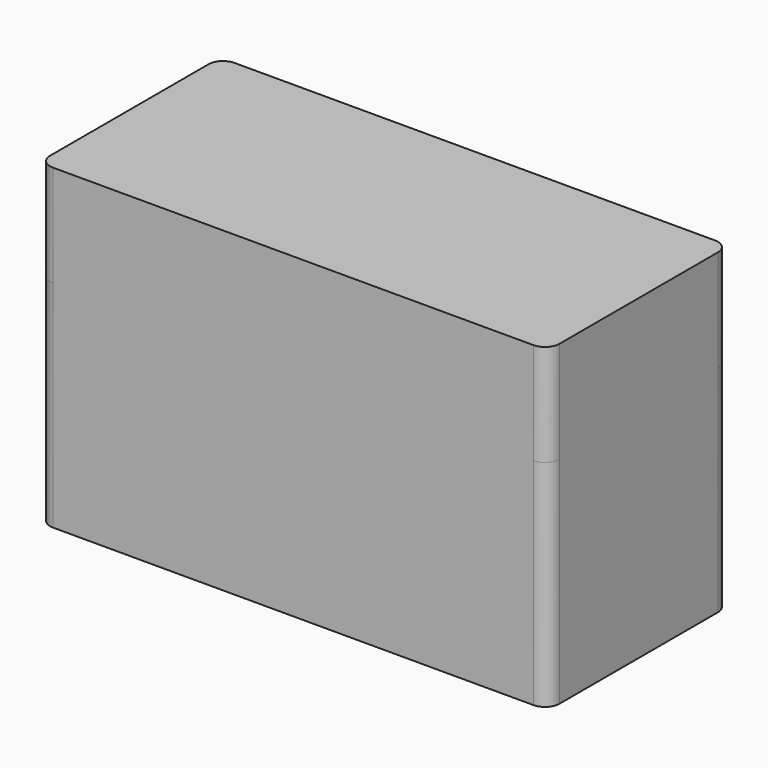
from build123d import *

# Parameters (mm, degrees)
F0_W     = 45.08
F0_H     = 20.08
F0_W_2   = 40
F0_H_2   = 15
F1_DEPTH = 19.05
F2_R     = 1.27
F4_DEPTH = 9


with BuildPart() as f1:
    # F0 (on Top) → F1 (new body)
    with BuildSketch(Plane.XY):
        Rectangle(F0_W, F0_H)
        Rectangle(F0_W_2, F0_H_2, mode=Mode.SUBTRACT)
    extrude(amount=F1_DEPTH)

    # F2
    f2_edges = [f1.edges().sort_by_distance(p)[0] for p in [
        (-20, 7.5, 9.525),
        (-20, -7.5, 9.525),
        (20, 7.5, 9.525),
        (20, -7.5, 9.525),
        (-22.54, -10.04, 9.525),
        (-22.54, 10.04, 9.525),
        (22.54, -10.04, 9.525),
        (22.54, 10.04, 9.525),
    ]]
    fillet(f2_edges, radius=F2_R)

    # F3 (on face) → F4 (join)
    with BuildSketch(Plane.XY.offset(19.05)):
        with BuildLine():
            Line((21.27, 10.04), (-21.27, 10.04))
            ThreePointArc((-21.27, 10.04), (-22.168026, 9.668026), (-22.54, 8.77))
            Line((-22.54, 8.77), (-22.54, -8.77))
            ThreePointArc((-22.54, -8.77), (-22.168026, -9.668026), (-21.27, -10.04))
            Line((-21.27, -10.04), (21.27, -10.04))
            ThreePointArc((21.27, -10.04), (22.168026, -9.668026), (22.54, -8.77))
            Line((22.54, -8.77), (22.54, 8.77))
            ThreePointArc((22.54, 8.77), (22.168026, 9.668026), (21.27, 10.04))
        make_face()
    extrude(amount=F4_DEPTH)


solid = f1.part
